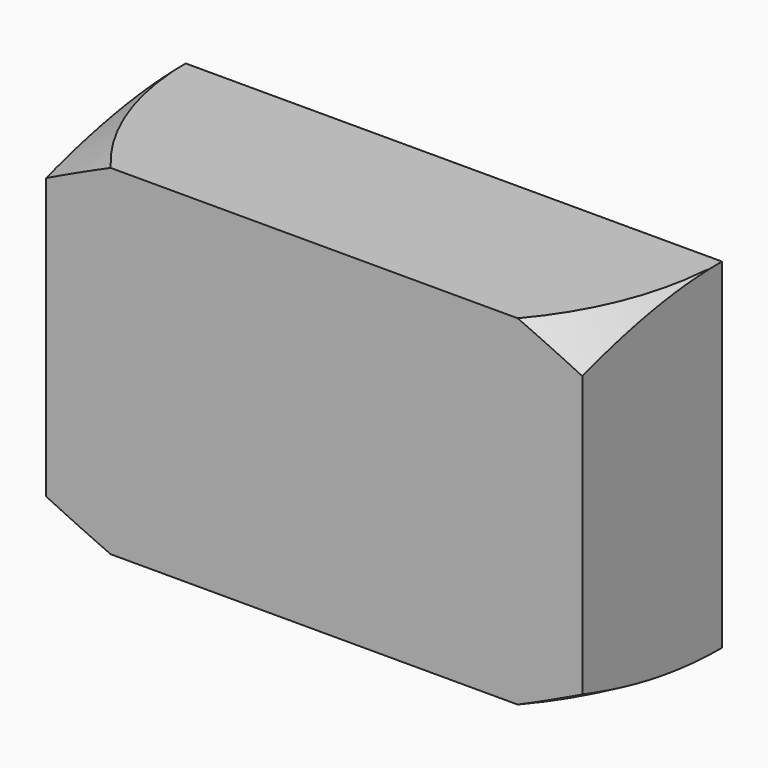
from build123d import *

# Parameters (mm, degrees)
F0_W     = 78.01886
F0_H     = 49.48626
F1_DEPTH = 25.4


with BuildPart() as f1:
    # F0 (on Front) → F1 (new body)
    with BuildSketch(Plane.XZ):
        Rectangle(F0_W, F0_H)
    extrude(amount=F1_DEPTH)

    # F2 (on Front) → F3 (revolve, cut)
    with BuildSketch(Plane.XZ):
        Polygon((57.689671, 24.74313), (39.00943, 24.74313), (57.689671, 13.958088), align=None)
        Polygon((57.689671, -13.958088), (39.00943, -24.74313), (57.689671, -24.74313), align=None)
    revolve(axis=Axis((0, 0, 0), (0, 0, -1)), mode=Mode.SUBTRACT)


solid = f1.part
